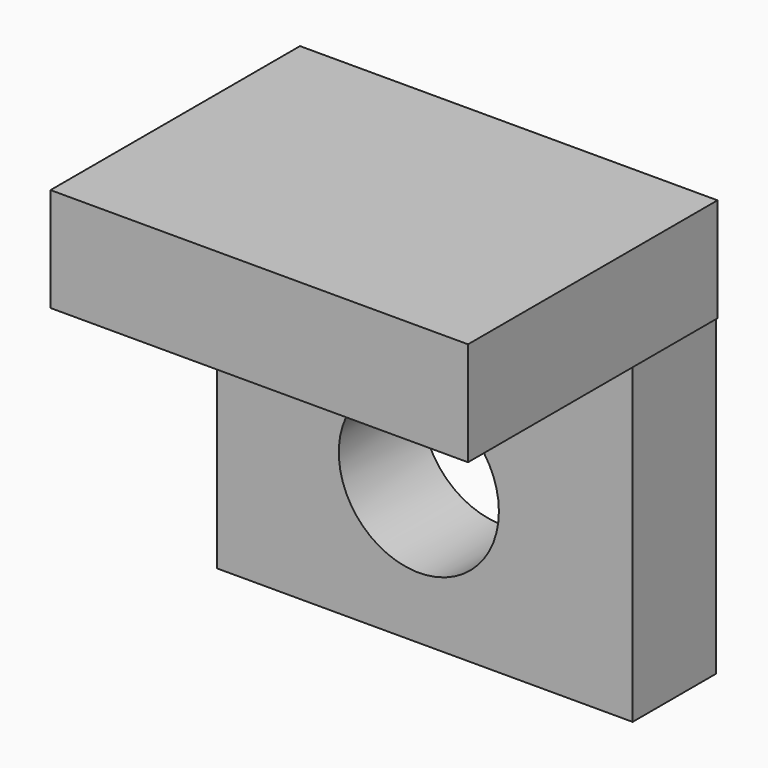
from build123d import *

# Parameters (mm, degrees)
F0_W     = 50.8
F0_H     = 50.8
F1_DEPTH = 12.7
F2_W     = 51.009607
F2_H     = 12.687672
F3_DEPTH = 38.1
F4_R     = 9.780589
F5_DEPTH = 12.7


with BuildPart() as f1:
    # F0 (on Front) → F1 (new body)
    with BuildSketch(Plane.XZ):
        with Locations((25.4, 25.4)):
            Rectangle(F0_W, F0_H)
    extrude(amount=F1_DEPTH)

    # F2 (on Front) → F3 (join)
    with BuildSketch(Plane.XZ):
        with Locations((25.504803, 44.665778)):
            Rectangle(F2_W, F2_H)
    extrude(amount=F3_DEPTH)

    # F4 (on face) → F5 (cut, through all)
    with BuildSketch(Plane.XZ.offset(12.7)):
        with Locations((24.682367, 17.329346)):
            Circle(F4_R)
    extrude(amount=-F5_DEPTH, mode=Mode.SUBTRACT)


solid = f1.part
